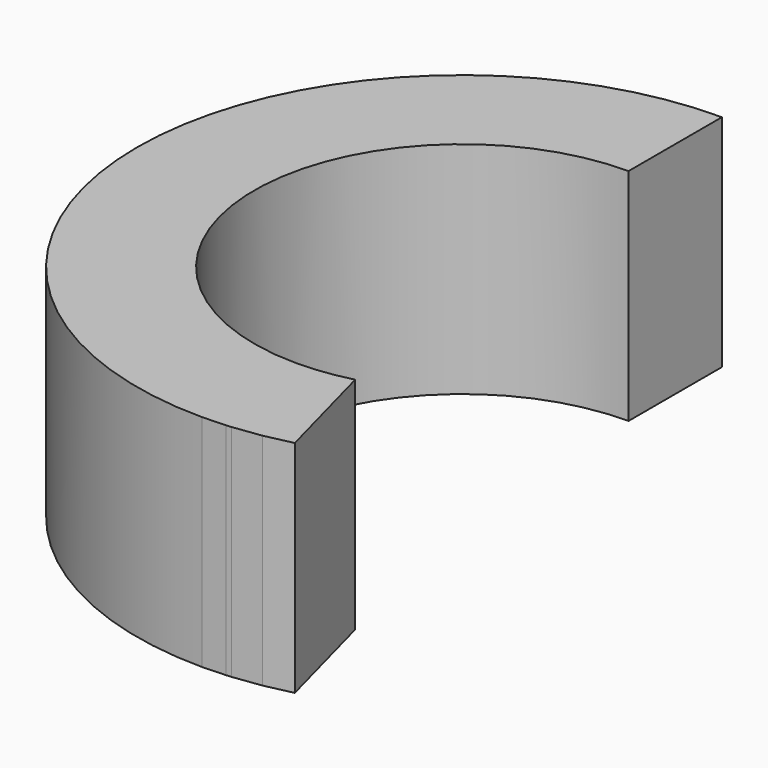
from build123d import *

# Parameters (mm, degrees)
F1_DEPTH = 25.4


with BuildPart() as f1:
    # F0 (on Top) → F1 (new body)
    with BuildSketch(Plane.XY):
        with BuildLine():
            Line((0, 24.024129), (0, 37.503868))
            ThreePointArc((0, 37.503868), (-37.504638, -0.000769), (0, -37.505407))
            Line((0, -37.505407), (2.655318, -37.400453))
            Line((2.655318, -37.400453), (3.281114, -37.349965))
            Line((3.281114, -37.349965), (6.502855, -36.928073))
            Line((6.502855, -36.928073), (9.673457, -36.224913))
            Line((9.673457, -36.224913), (6.195297, -23.168214))
            Line((6.195297, -23.168214), (4.153784, -23.611279))
            Line((4.153784, -23.611279), (2.079332, -23.881992))
            Line((2.079332, -23.881992), (0, -23.970587))
            ThreePointArc((0, -23.970587), (-23.997358, 0.026771), (0, 24.024129))
        make_face()
    extrude(amount=F1_DEPTH)


solid = f1.part
